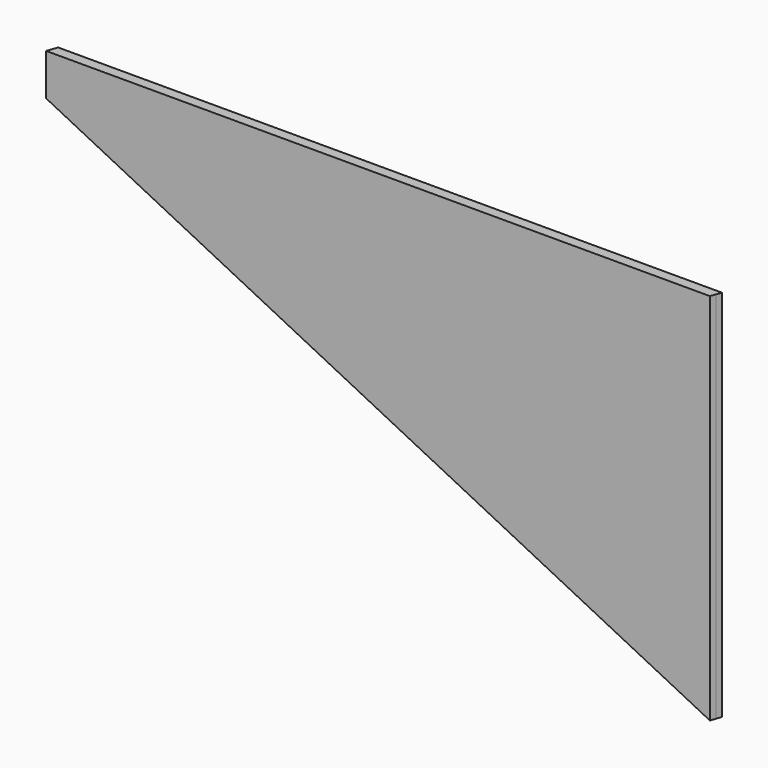
from build123d import *

# Parameters (mm, degrees)
F1_DEPTH      = 12.7
F5_DEPTH      = 511.1661396565
F5_DEPTH_BACK = 511.1661396565
F7_DEPTH      = 457.201


with BuildPart() as f1:
    # F0 (on Front) → F1 (new body)
    with BuildSketch(Plane.XZ):
        Polygon((0, -457.2), (0, 0), (-914.4, 0), align=None)
    extrude(amount=F1_DEPTH)

    # F4 (on line) → F5 (cut, two sides)
    with BuildSketch(Plane(origin=(-274.32, 0, 137.16), x_dir=(0, 1, 0), z_dir=(0.894427191, 0, -0.4472135955))) as f5_sk:
        Polygon((-12.7, -408.9321117252), (0, -408.9321117252), (0, -406.8387485734), align=None)
    extrude(amount=-F5_DEPTH, mode=Mode.SUBTRACT)
    extrude(f5_sk.sketch, amount=F5_DEPTH_BACK, mode=Mode.SUBTRACT)

    # F6 (on face) → F7 (cut, through all)
    with BuildSketch(Plane.XY):
        Polygon((-912.0595488455, -6.35), (-810.468111026, -6.35), (-808.223047, 0), (-909.719097691, 0), align=None)
        Polygon((-812.7131750519, -12.7), (-810.468111026, -6.35), (-912.0595488455, -6.35), (-914.4, -12.7), align=None)
        Polygon((-2.245064026, -6.35), (0, -6.35), (0, 0), align=None)
        Polygon((0, -12.7), (0, -6.35), (-2.245064026, -6.35), (-4.4901280519, -12.7), align=None)
    extrude(amount=-F7_DEPTH, mode=Mode.SUBTRACT)


solid = f1.part
